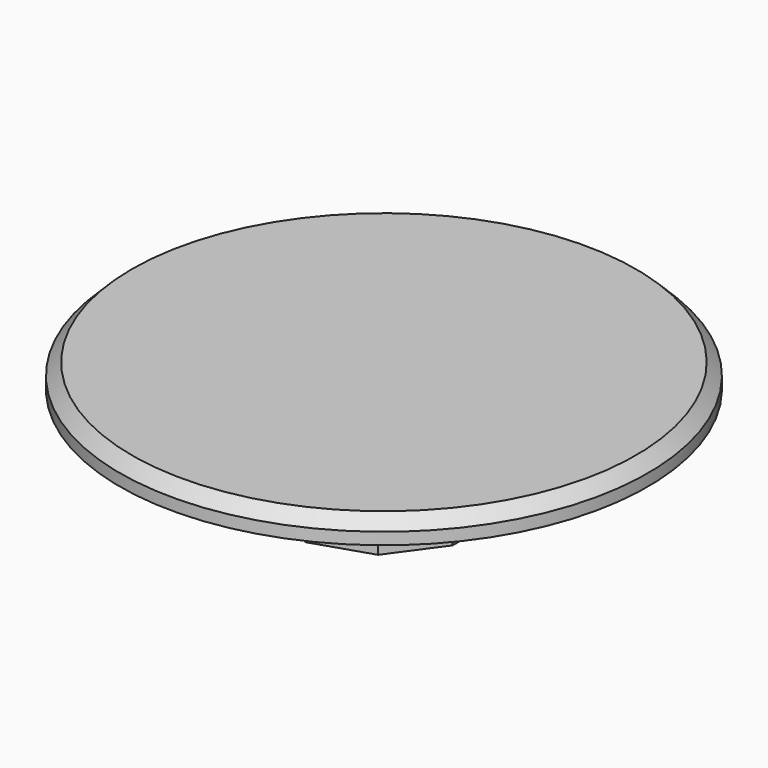
from build123d import *

# Parameters (mm, degrees)
F2_SIZE  = 0.5
F4_DEPTH = 3


with BuildPart() as f1:
    # F0 (on Front) → F1 (revolve)
    with BuildSketch(Plane.XZ):
        Polygon((-4.1, 0), (0, 0), (0, 5), (-11.1, 5), (-11.1, 4), (-5.1, 4), (-5.1, 3), (-4.1, 3), align=None)
    revolve(axis=Axis((0, 0, 2.5), (0, 0, -1)))

    # F2
    f2_edges = [f1.edges().sort_by_distance(p)[0] for p in [
        (11.1, 0, 5),
    ]]
    chamfer(f2_edges, length=F2_SIZE)

    # F3 (on face) → F4 (cut)
    with BuildSketch(Plane(origin=(0, 0, 0), x_dir=(1, 0, 0), z_dir=(0, 0, -1))):
        with BuildLine():
            ThreePointArc((2.40992, 3.31697), (1.26697, 3.899332), (0, 4.1))
            Line((0, 4.1), (2.40992, 3.31697))
        make_face()
        with BuildLine():
            ThreePointArc((3.899332, 1.26697), (3.31697, 2.40992), (2.40992, 3.31697))
            Line((2.40992, 3.31697), (3.899332, 1.26697))
        make_face()
        with BuildLine():
            ThreePointArc((4.1, 0), (4.049522, 0.641381), (3.899332, 1.26697))
            Line((3.899332, 1.26697), (3.899332, -1.26697))
            ThreePointArc((3.899332, -1.26697), (4.049522, -0.641381), (4.1, 0))
        make_face()
        with BuildLine():
            ThreePointArc((2.40992, -3.31697), (3.31697, -2.40992), (3.899332, -1.26697))
            Line((3.899332, -1.26697), (2.40992, -3.31697))
        make_face()
        with BuildLine():
            ThreePointArc((0, -4.1), (1.26697, -3.899332), (2.40992, -3.31697))
            Line((2.40992, -3.31697), (0, -4.1))
        make_face()
        with BuildLine():
            Line((0, -4.1), (-2.40992, -3.31697))
            ThreePointArc((-2.40992, -3.31697), (-1.26697, -3.899332), (0, -4.1))
        make_face()
        with BuildLine():
            Line((-2.40992, -3.31697), (-3.899332, -1.26697))
            ThreePointArc((-3.899332, -1.26697), (-3.31697, -2.40992), (-2.40992, -3.31697))
        make_face()
        with BuildLine():
            Line((-3.899332, -1.26697), (-3.899332, 1.26697))
            ThreePointArc((-3.899332, 1.26697), (-4.1, 0), (-3.899332, -1.26697))
        make_face()
        with BuildLine():
            Line((-3.899332, 1.26697), (-2.40992, 3.31697))
            ThreePointArc((-2.40992, 3.31697), (-3.31697, 2.40992), (-3.899332, 1.26697))
        make_face()
        with BuildLine():
            Line((-2.40992, 3.31697), (0, 4.1))
            ThreePointArc((0, 4.1), (-1.26697, 3.899332), (-2.40992, 3.31697))
        make_face()
    extrude(amount=-F4_DEPTH, mode=Mode.SUBTRACT)


solid = f1.part
